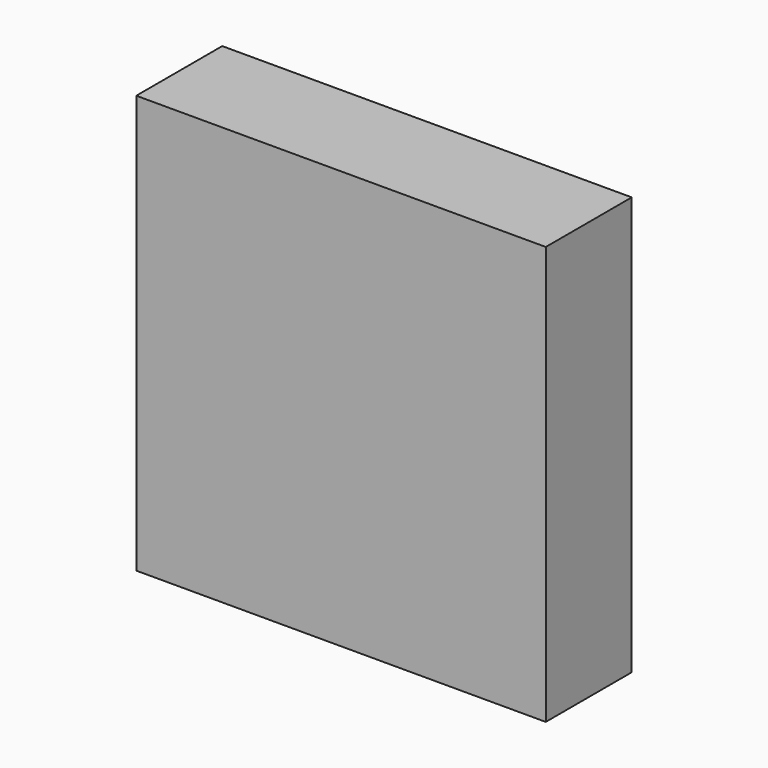
from build123d import *

# Parameters (mm, degrees)
F1_W     = 454.2112052441
F1_H     = 781.1917066574
F2_DEPTH = 894.5351783186
F3_DEPTH = 2699.4251012802
F4_W     = 894.5351783186
F4_H     = 3480.6168079376
F5_DEPTH = 2954.6291828156


with BuildPart() as f2:
    # F1 (on face) → F2 (new body)
    with BuildSketch(Plane.XZ):
        with Locations((227.105602622, 390.5958533287)):
            Rectangle(F1_W, F1_H)
    extrude(amount=F2_DEPTH)

    # F3 (add): a face of the model
    f3_faces = [f2.faces().sort_by_distance(p)[0] for p in [
        (227.105602622, -447.2675891593, 781.1917066574),
    ]]
    extrude(f3_faces, amount=F3_DEPTH)

    # F4 (on face) → F5 (join)
    with BuildSketch(Plane.YZ.offset(454.2112052441)):
        with Locations((-447.2675891593, 1740.3084039688)):
            Rectangle(F4_W, F4_H)
    extrude(amount=F5_DEPTH)


solid = f2.part
